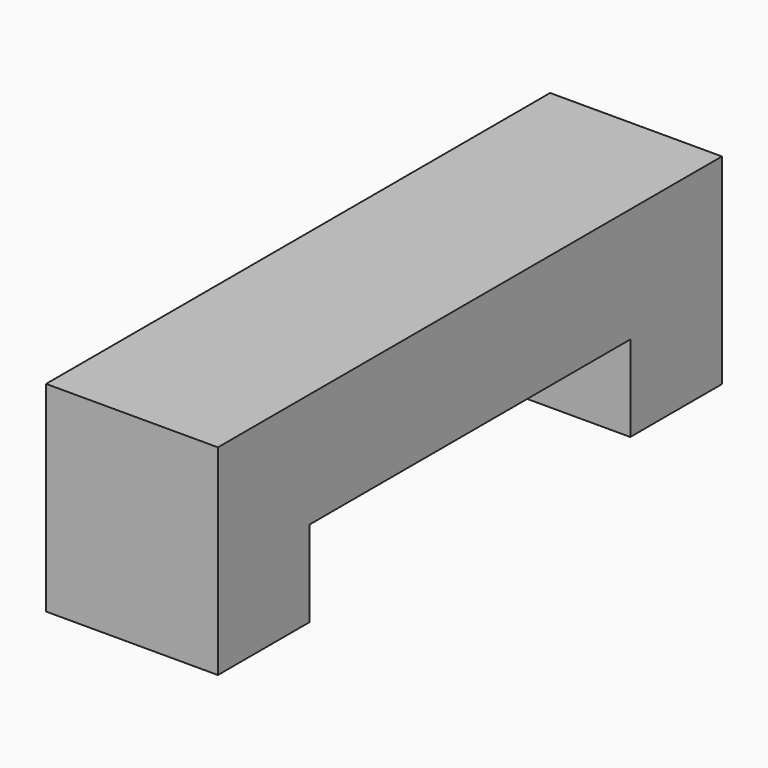
from build123d import *

# Parameters (mm, degrees)
BOX028_W     = 3
BOX028_H     = 7
BOX028_DEPTH = 2
BOX029_W     = 3
BOX029_H     = 2
BOX029_DEPTH = 3.5
BOX030_W     = 3
BOX030_H     = 2
BOX030_DEPTH = 3.5


with BuildPart() as obj1:
    # Box028 → Box028 (new body)
    with BuildSketch(Plane(origin=(17.5, 39, 10), x_dir=(1, 0, 0), z_dir=(0, 0, 1))):
        with Locations((1.5, 3.5)):
            Rectangle(BOX028_W, BOX028_H)
    extrude(amount=BOX028_DEPTH)


with BuildPart() as obj2:
    # Box029 → Box029 (new body)
    with BuildSketch(Plane(origin=(17.5, 46, 8.5), x_dir=(1, 0, 0), z_dir=(0, 0, 1))):
        with Locations((1.5, 1)):
            Rectangle(BOX029_W, BOX029_H)
    extrude(amount=BOX029_DEPTH)


with BuildPart() as obj3:
    # Box030 → Box030 (new body)
    with BuildSketch(Plane(origin=(17.5, 37, 8.5), x_dir=(1, 0, 0), z_dir=(0, 0, 1))):
        with Locations((1.5, 1)):
            Rectangle(BOX030_W, BOX030_H)
    extrude(amount=BOX030_DEPTH)

    # Fusion028: union obj1, obj2
    add(obj1.part)
    add(obj2.part)


with BuildPart() as obj3_1:
    # Fusion028 placement: moved
    add(obj3.part.moved(Location((44, 43, 0.5))))


solid = obj3_1.part
